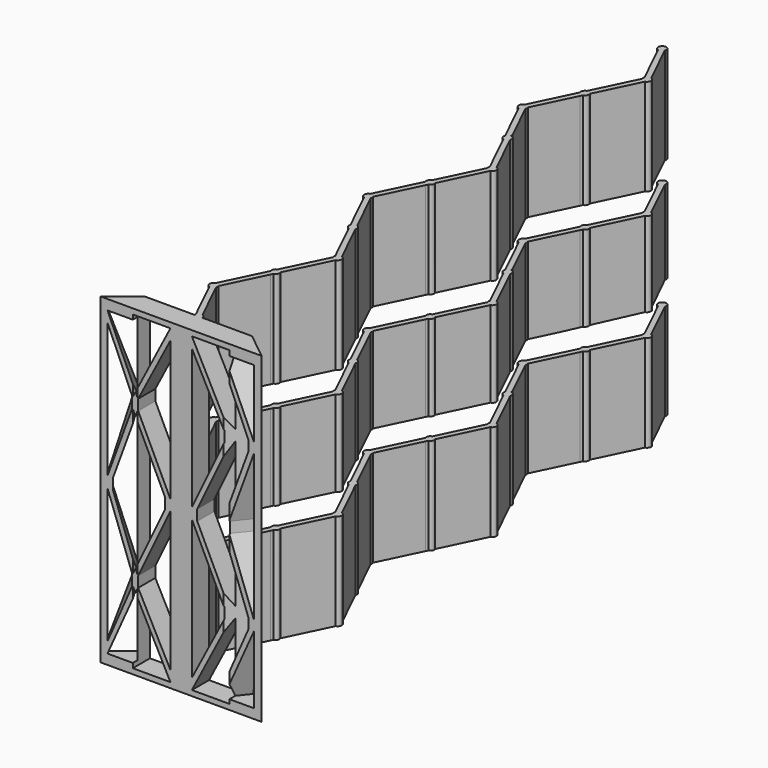
from build123d import *

# Parameters (mm, degrees)
F1_DEPTH       = 30
F3_DEPTH       = 25
F5_DEPTH       = 25
F7_DEPTH       = 25
F9_DEPTH       = 30
F10_W          = 16.491856426
F10_H          = 2
F11_DEPTH      = 25
F11_DEPTH_BACK = 25


with BuildPart() as f1:
    # F0 (on Top) → F1 (new body)
    with BuildSketch(Plane.XY):
        Polygon((-7.5, 0), (0, 0), (0, 2), (-5, 2), align=None)
        Polygon((0, 2), (0, 0), (7.5, 0), (5, 2), align=None)
    extrude(amount=F1_DEPTH)

    # F2 (on face) → F3 (cut)
    with BuildSketch(Plane(origin=(0, 2, 0), x_dir=(-1, 0, 0), z_dir=(0, 1, 0))):
        Polygon((-1, 29.5), (-4.5, 29.5), (-4.5, 22.75), align=None)
        Polygon((-1, 15.5), (-1, 28.5), (-4, 22.75), (-4, 21.75), align=None)
        Polygon((-1.5, 15.5), (-4.5, 21.75), (-4.5, 15), (-1.5, 15), align=None)
        Polygon((4, 22.75), (1, 28.5), (1, 15.5), (4, 21.75), align=None)
        Polygon((4.5, 29.5), (1, 29.5), (4.5, 22.75), align=None)
        Polygon((4.5, 21.75), (1.5, 15.5), (1.5, 15), (4.5, 15), align=None)
        Polygon((-1.5, 15), (-4.5, 15), (-4.5, 8.25), (-1.5, 14.5), align=None)
        Polygon((-4, 7.25), (-1, 1.5), (-1, 14.5), (-4, 8.25), align=None)
        Polygon((-4.5, 7.25), (-4.5, 0.5), (-1, 0.5), align=None)
        Polygon((4, 8.25), (1, 14.5), (1, 1.5), (4, 7.25), align=None)
        Polygon((4.5, 15), (1.5, 15), (1.5, 14.5), (4.5, 8.25), align=None)
        Polygon((1, 0.5), (4.5, 0.5), (4.5, 7.25), align=None)
    extrude(amount=-F3_DEPTH, mode=Mode.SUBTRACT)

    # F4 (on face) → F5 (cut)
    with BuildSketch(Plane(origin=(-2.9268292683, 3.6585365854, 0), x_dir=(-0.7808688094, -0.6246950476, 0), z_dir=(-0.6246950476, 0.7808688094, 0))):
        Polygon((3.1549539521, 15), (4.9565160708, 15), (4.9565160708, 15.5), (3.1549539521, 21.7829179019), (3.1549539521, 15.5), align=None)
        Polygon((5.3565160708, 16), (5.3565160708, 28.0658358037), (3.5549539521, 22.7829179019), (3.5549539521, 21.7829179019), (5.3565160708, 15.5), align=None)
        Polygon((4.9565160708, 14.5), (4.9565160708, 15), (3.1549539521, 15), (3.1549539521, 14.5), (3.1549539521, 8.2170820981), align=None)
        Polygon((5.3565160708, 14), (5.3565160708, 14.5), (3.5549539521, 8.2170820981), (3.5549539521, 7.2170820981), (5.3565160708, 1.9341641963), align=None)
        Polygon((3.1549539521, 0.9341641963), (5.3565160708, 0.9341641963), (3.1549539521, 7.2170820981), align=None)
        Polygon((5.3565160708, 29.0658358037), (3.1549539521, 29.0658358037), (3.1549539521, 22.7829179019), align=None)
    extrude(amount=-F5_DEPTH, mode=Mode.SUBTRACT)

    # F6 (on face) → F7 (cut)
    with BuildSketch(Plane(origin=(2.9268292683, 3.6585365854, 0), x_dir=(-0.7808688094, 0.6246950476, 0), z_dir=(0.6246950476, 0.7808688094, 0))):
        Polygon((-3.0835880205, 1.8874384761), (-3.0835880205, 14.4532742798), (-4.8851501392, 8.170356378), (-4.8851501392, 7.170356378), align=None)
        Polygon((-3.4835880205, 14.4532742798), (-3.4835880205, 14.9532742798), (-5.2851501392, 14.9532742798), (-5.2851501392, 13.3242430985), (-5.2851501392, 8.170356378), align=None)
        Polygon((-5.2851501392, 14.9532742798), (-3.4835880205, 14.9532742798), (-3.4835880205, 15.4532742798), (-5.2851501392, 21.7361921817), (-5.2851501392, 16.5823054612), align=None)
        Polygon((-5.2851501392, 0.8874384761), (-3.0835880205, 0.8874384761), (-5.2851501392, 7.170356378), align=None)
        Polygon((-4.8851501392, 21.7361921817), (-3.0835880205, 15.4532742798), (-3.0835880205, 28.0191100836), (-4.8851501392, 22.7361921817), align=None)
        Polygon((-3.0835880205, 29.0191100836), (-5.2851501392, 29.0191100836), (-5.2851501392, 22.7361921817), align=None)
    extrude(amount=-F7_DEPTH, mode=Mode.SUBTRACT)

    # F8 (on Top) → F9 (join)
    with BuildSketch(Plane.XY):
        with BuildLine():
            Line((-2.0159907614, 6.1625), (-0.1634587104, 2.3375))
            ThreePointArc((-0.1634587104, 2.3375), (-0.0838525492, 2.3655047879), (0, 2.375))
            Line((0, 2.375), (0, 2.5735393347))
            Line((0, 2.5735393347), (-1.8326145425, 6.3574148261))
            ThreePointArc((-1.8326145425, 6.3574148261), (-1.9063234074, 6.2430425075), (-2.0159907614, 6.1625))
        make_face()
        with BuildLine():
            Line((1.8326145425, 15.3574148261), (-0.1031650707, 11.3605301211))
            ThreePointArc((-0.1031650707, 11.3605301211), (0.1634587104, 11.3375), (0.3468349293, 11.1425851739))
            Line((0.3468349293, 11.1425851739), (2.2826145425, 15.1394698789))
            ThreePointArc((2.2826145425, 15.1394698789), (2.0159907614, 15.1625), (1.8326145425, 15.3574148261))
        make_face()
        with BuildLine():
            Line((1.8326145425, 33.3574148261), (-0.1031650707, 29.3605301211))
            ThreePointArc((-0.1031650707, 29.3605301211), (0.1634587104, 29.3375), (0.3468349293, 29.1425851739))
            Line((0.3468349293, 29.1425851739), (2.2826145425, 33.1394698789))
            ThreePointArc((2.2826145425, 33.1394698789), (2.0159907614, 33.1625), (1.8326145425, 33.3574148261))
        make_face()
        with BuildLine():
            Line((-0.3468349293, 28.8574148261), (-2.2826145425, 24.8605301211))
            ThreePointArc((-2.2826145425, 24.8605301211), (-2.147178318, 24.8736088498), (-2.0159907614, 24.8375))
            Line((-2.0159907614, 24.8375), (-0.1634587104, 28.6625))
            ThreePointArc((-0.1634587104, 28.6625), (-0.2731260644, 28.7430425075), (-0.3468349293, 28.8574148261))
        make_face()
        with BuildLine():
            Line((-0.1031650707, 19.6394698789), (1.8326145425, 15.6425851739))
            ThreePointArc((1.8326145425, 15.6425851739), (1.9063234074, 15.7569574925), (2.0159907614, 15.8375))
            Line((2.0159907614, 15.8375), (0.1634587104, 19.6625))
            ThreePointArc((0.1634587104, 19.6625), (0.0322711538, 19.6263911502), (-0.1031650707, 19.6394698789))
        make_face()
        with BuildLine():
            Line((0.1634587104, 19.6625), (2.0159907614, 15.8375))
            ThreePointArc((2.0159907614, 15.8375), (2.147178318, 15.8736088498), (2.2826145425, 15.8605301211))
            Line((2.2826145425, 15.8605301211), (0.3468349293, 19.8574148261))
            ThreePointArc((0.3468349293, 19.8574148261), (0.2731260644, 19.7430425075), (0.1634587104, 19.6625))
        make_face()
        with BuildLine():
            Line((-2.2826145425, 24.1394698789), (-0.3468349293, 20.1425851739))
            ThreePointArc((-0.3468349293, 20.1425851739), (-0.2731260644, 20.2569574925), (-0.1634587104, 20.3375))
            Line((-0.1634587104, 20.3375), (-2.0159907614, 24.1625))
            ThreePointArc((-2.0159907614, 24.1625), (-2.147178318, 24.1263911502), (-2.2826145425, 24.1394698789))
        make_face()
        with BuildLine():
            Line((-2.2826145425, 6.1394698789), (-0.3468349293, 2.1425851739))
            ThreePointArc((-0.3468349293, 2.1425851739), (-0.2731260644, 2.2569574925), (-0.1634587104, 2.3375))
            Line((-0.1634587104, 2.3375), (-2.0159907614, 6.1625))
            ThreePointArc((-2.0159907614, 6.1625), (-2.147178318, 6.1263911502), (-2.2826145425, 6.1394698789))
        make_face()
        with BuildLine():
            Line((-0.3468349293, 10.8574148261), (-2.2826145425, 6.8605301211))
            ThreePointArc((-2.2826145425, 6.8605301211), (-2.147178318, 6.8736088498), (-2.0159907614, 6.8375))
            Line((-2.0159907614, 6.8375), (-0.1634587104, 10.6625))
            ThreePointArc((-0.1634587104, 10.6625), (-0.2731260644, 10.7430425075), (-0.3468349293, 10.8574148261))
        make_face()
        with BuildLine():
            Line((-1.8326145425, 6.6425851739), (0, 10.4264606653))
            Line((0, 10.4264606653), (0, 10.625))
            ThreePointArc((0, 10.625), (-0.0838525492, 10.6344952121), (-0.1634587104, 10.6625))
            Line((-0.1634587104, 10.6625), (-2.0159907614, 6.8375))
            ThreePointArc((-2.0159907614, 6.8375), (-1.9063234074, 6.7569574925), (-1.8326145425, 6.6425851739))
        make_face()
        with BuildLine():
            Line((-2.0159907614, 24.1625), (-0.1634587104, 20.3375))
            ThreePointArc((-0.1634587104, 20.3375), (-0.0838525492, 20.3655047879), (0, 20.375))
            Line((0, 20.375), (0, 20.5735393347))
            Line((0, 20.5735393347), (-1.8326145425, 24.3574148261))
            ThreePointArc((-1.8326145425, 24.3574148261), (-1.9063234074, 24.2430425075), (-2.0159907614, 24.1625))
        make_face()
        with BuildLine():
            Line((-0.1634587104, 28.6625), (-2.0159907614, 24.8375))
            ThreePointArc((-2.0159907614, 24.8375), (-1.9063234074, 24.7569574925), (-1.8326145425, 24.6425851739))
            Line((-1.8326145425, 24.6425851739), (0, 28.4264606653))
            Line((0, 28.4264606653), (0, 28.625))
            ThreePointArc((0, 28.625), (-0.0838525492, 28.6344952121), (-0.1634587104, 28.6625))
        make_face()
        with BuildLine():
            Line((-0.1031650707, 37.6394698789), (1.8326145425, 33.6425851739))
            ThreePointArc((1.8326145425, 33.6425851739), (1.9063234074, 33.7569574925), (2.0159907614, 33.8375))
            Line((2.0159907614, 33.8375), (0.1634587104, 37.6625))
            ThreePointArc((0.1634587104, 37.6625), (0.0322711538, 37.6263911502), (-0.1031650707, 37.6394698789))
        make_face()
        with BuildLine():
            Line((0.1634587104, 37.6625), (2.0159907614, 33.8375))
            ThreePointArc((2.0159907614, 33.8375), (2.147178318, 33.8736088498), (2.2826145425, 33.8605301211))
            Line((2.2826145425, 33.8605301211), (0.3468349293, 37.8574148261))
            ThreePointArc((0.3468349293, 37.8574148261), (0.2731260644, 37.7430425075), (0.1634587104, 37.6625))
        make_face()
        with BuildLine():
            Line((2.4044494718, 15.3910275264), (2.2826145425, 15.1394698789))
            ThreePointArc((2.2826145425, 15.1394698789), (2.4788755073, 15.2742367407), (2.5544494718, 15.5))
            ThreePointArc((2.5544494718, 15.5), (2.4788755073, 15.7257632593), (2.2826145425, 15.8605301211))
            Line((2.2826145425, 15.8605301211), (2.4044494718, 15.6089724736))
            Line((2.4044494718, 15.6089724736), (2.1794494718, 15.5))
            Line((2.1794494718, 15.5), (2.4044494718, 15.3910275264))
        make_face()
        with BuildLine():
            Line((0, 38), (0.1634587104, 37.6625))
            ThreePointArc((0.1634587104, 37.6625), (0.2731260644, 37.7430425075), (0.3468349293, 37.8574148261))
            Line((0.3468349293, 37.8574148261), (0.225, 38.1089724736))
            Line((0.225, 38.1089724736), (0, 38))
        make_face()
        with BuildLine():
            Line((-0.225, 37.8910275264), (-0.1031650707, 37.6394698789))
            ThreePointArc((-0.1031650707, 37.6394698789), (0.0322711538, 37.6263911502), (0.1634587104, 37.6625))
            Line((0.1634587104, 37.6625), (0, 38))
            Line((0, 38), (-0.225, 37.8910275264))
        make_face()
        with BuildLine():
            Line((-0.3468349293, 38.1425851739), (-0.225, 37.8910275264))
            Line((-0.225, 37.8910275264), (0, 38))
            Line((0, 38), (-0.1634587104, 38.3375))
            ThreePointArc((-0.1634587104, 38.3375), (-0.2731260644, 38.2569574925), (-0.3468349293, 38.1425851739))
        make_face()
        with BuildLine():
            Line((1.901671694, 15.5), (1.8326145425, 15.3574148261))
            ThreePointArc((1.8326145425, 15.3574148261), (2.0159907614, 15.1625), (2.2826145425, 15.1394698789))
            Line((2.2826145425, 15.1394698789), (2.4044494718, 15.3910275264))
            Line((2.4044494718, 15.3910275264), (2.1794494718, 15.5))
            Line((2.1794494718, 15.5), (1.9544494718, 15.3910275264))
            Line((1.9544494718, 15.3910275264), (1.901671694, 15.5))
        make_face()
        with BuildLine():
            ThreePointArc((2.2826145425, 15.8605301211), (2.147178318, 15.8736088498), (2.0159907614, 15.8375))
            Line((2.0159907614, 15.8375), (2.1794494718, 15.5))
            Line((2.1794494718, 15.5), (2.4044494718, 15.6089724736))
            Line((2.4044494718, 15.6089724736), (2.2826145425, 15.8605301211))
        make_face()
        Polygon((1.9544494718, 15.6089724736), (1.901671694, 15.5), (1.9544494718, 15.3910275264), (2.1794494718, 15.5), align=None)
        with BuildLine():
            ThreePointArc((1.8326145425, 15.6425851739), (1.8044494718, 15.5), (1.8326145425, 15.3574148261))
            Line((1.8326145425, 15.3574148261), (1.901671694, 15.5))
            Line((1.901671694, 15.5), (1.8326145425, 15.6425851739))
        make_face()
        with BuildLine():
            Line((1.8326145425, 15.6425851739), (1.901671694, 15.5))
            Line((1.901671694, 15.5), (1.9544494718, 15.6089724736))
            Line((1.9544494718, 15.6089724736), (2.1794494718, 15.5))
            Line((2.1794494718, 15.5), (2.0159907614, 15.8375))
            ThreePointArc((2.0159907614, 15.8375), (1.9063234074, 15.7569574925), (1.8326145425, 15.6425851739))
        make_face()
        with BuildLine():
            Line((0.225, 10.8910275264), (0.1031650707, 10.6394698789))
            ThreePointArc((0.1031650707, 10.6394698789), (0.2994260355, 10.7742367407), (0.375, 11))
            ThreePointArc((0.375, 11), (0.3678913552, 11.0726701504), (0.3468349293, 11.1425851739))
            Line((0.3468349293, 11.1425851739), (0.225, 10.8910275264))
        make_face()
        with BuildLine():
            ThreePointArc((-0.1031650707, 11.3605301211), (-0.3375, 11.1634587104), (-0.3468349293, 10.8574148261))
            Line((-0.3468349293, 10.8574148261), (-0.225, 11.1089724736))
            Line((-0.225, 11.1089724736), (-0.1031650707, 11.3605301211))
        make_face()
        with BuildLine():
            Line((-0.225, 11.1089724736), (-0.3468349293, 10.8574148261))
            ThreePointArc((-0.3468349293, 10.8574148261), (-0.2731260644, 10.7430425075), (-0.1634587104, 10.6625))
            Line((-0.1634587104, 10.6625), (0, 11))
            Line((0, 11), (-0.225, 11.1089724736))
        make_face()
        with BuildLine():
            Line((1.901671694, 33.5), (1.8326145425, 33.3574148261))
            ThreePointArc((1.8326145425, 33.3574148261), (2.0159907614, 33.1625), (2.2826145425, 33.1394698789))
            Line((2.2826145425, 33.1394698789), (2.4044494718, 33.3910275264))
            Line((2.4044494718, 33.3910275264), (2.1794494718, 33.5))
            Line((2.1794494718, 33.5), (1.9544494718, 33.3910275264))
            Line((1.9544494718, 33.3910275264), (1.901671694, 33.5))
        make_face()
        with BuildLine():
            Line((0, 10.625), (0, 10.4264606653))
            Line((0, 10.4264606653), (0.1031650707, 10.6394698789))
            ThreePointArc((0.1031650707, 10.6394698789), (0.0520874486, 10.6286350882), (0, 10.625))
        make_face()
        with BuildLine():
            Line((-0.225, 11.1089724736), (-0.3468349293, 10.8574148261))
            ThreePointArc((-0.3468349293, 10.8574148261), (-0.2731260644, 10.7430425075), (-0.1634587104, 10.6625))
            Line((-0.1634587104, 10.6625), (0, 11))
            Line((0, 11), (-0.225, 11.1089724736))
        make_face()
        with BuildLine():
            Line((-0.1031650707, 11.3605301211), (-0.225, 11.1089724736))
            Line((-0.225, 11.1089724736), (0, 11))
            Line((0, 11), (0.225, 10.8910275264))
            Line((0.225, 10.8910275264), (0.3468349293, 11.1425851739))
            ThreePointArc((0.3468349293, 11.1425851739), (0.1634587104, 11.3375), (-0.1031650707, 11.3605301211))
        make_face()
        with BuildLine():
            Line((2.4044494718, 33.3910275264), (2.2826145425, 33.1394698789))
            ThreePointArc((2.2826145425, 33.1394698789), (2.4788755073, 33.2742367407), (2.5544494718, 33.5))
            ThreePointArc((2.5544494718, 33.5), (2.4788755073, 33.7257632593), (2.2826145425, 33.8605301211))
            Line((2.2826145425, 33.8605301211), (2.4044494718, 33.6089724736))
            Line((2.4044494718, 33.6089724736), (2.1794494718, 33.5))
            Line((2.1794494718, 33.5), (2.4044494718, 33.3910275264))
        make_face()
        with BuildLine():
            Line((-0.1031650707, 11.3605301211), (-0.225, 11.1089724736))
            Line((-0.225, 11.1089724736), (0, 11))
            Line((0, 11), (0.225, 10.8910275264))
            Line((0.225, 10.8910275264), (0.3468349293, 11.1425851739))
            ThreePointArc((0.3468349293, 11.1425851739), (0.1634587104, 11.3375), (-0.1031650707, 11.3605301211))
        make_face()
        with BuildLine():
            Line((0, 11), (0, 10.625))
            ThreePointArc((0, 10.625), (0.0520874486, 10.6286350882), (0.1031650707, 10.6394698789))
            Line((0.1031650707, 10.6394698789), (0.225, 10.8910275264))
            Line((0.225, 10.8910275264), (0, 11))
        make_face()
        with BuildLine():
            Line((1.8326145425, 33.6425851739), (1.901671694, 33.5))
            Line((1.901671694, 33.5), (1.9544494718, 33.6089724736))
            Line((1.9544494718, 33.6089724736), (2.1794494718, 33.5))
            Line((2.1794494718, 33.5), (2.0159907614, 33.8375))
            ThreePointArc((2.0159907614, 33.8375), (1.9063234074, 33.7569574925), (1.8326145425, 33.6425851739))
        make_face()
        Polygon((1.9544494718, 33.6089724736), (1.901671694, 33.5), (1.9544494718, 33.3910275264), (2.1794494718, 33.5), align=None)
        with BuildLine():
            ThreePointArc((-0.1634587104, 10.6625), (-0.0838525492, 10.6344952121), (0, 10.625))
            Line((0, 10.625), (0, 11))
            Line((0, 11), (-0.1634587104, 10.6625))
        make_face()
        with BuildLine():
            ThreePointArc((2.2826145425, 33.8605301211), (2.147178318, 33.8736088498), (2.0159907614, 33.8375))
            Line((2.0159907614, 33.8375), (2.1794494718, 33.5))
            Line((2.1794494718, 33.5), (2.4044494718, 33.6089724736))
            Line((2.4044494718, 33.6089724736), (2.2826145425, 33.8605301211))
        make_face()
        with BuildLine():
            ThreePointArc((1.8326145425, 33.6425851739), (1.8044494718, 33.5), (1.8326145425, 33.3574148261))
            Line((1.8326145425, 33.3574148261), (1.901671694, 33.5))
            Line((1.901671694, 33.5), (1.8326145425, 33.6425851739))
        make_face()
        with BuildLine():
            Line((0, 2.5735393347), (0, 2.375))
            ThreePointArc((0, 2.375), (0.0520874486, 2.3713649118), (0.1031650707, 2.3605301211))
            Line((0.1031650707, 2.3605301211), (0, 2.5735393347))
        make_face()
        with BuildLine():
            ThreePointArc((-2.2826145425, 6.8605301211), (-2.5544494718, 6.5), (-2.2826145425, 6.1394698789))
            Line((-2.2826145425, 6.1394698789), (-2.4044494718, 6.3910275264))
            Line((-2.4044494718, 6.3910275264), (-2.1794494718, 6.5))
            Line((-2.1794494718, 6.5), (-2.4044494718, 6.6089724736))
            Line((-2.4044494718, 6.6089724736), (-2.2826145425, 6.8605301211))
        make_face()
        with BuildLine():
            Line((-2.4044494718, 6.3910275264), (-2.2826145425, 6.1394698789))
            ThreePointArc((-2.2826145425, 6.1394698789), (-2.147178318, 6.1263911502), (-2.0159907614, 6.1625))
            Line((-2.0159907614, 6.1625), (-2.1794494718, 6.5))
            Line((-2.1794494718, 6.5), (-2.4044494718, 6.3910275264))
        make_face()
        with BuildLine():
            ThreePointArc((-2.0159907614, 6.8375), (-2.147178318, 6.8736088498), (-2.2826145425, 6.8605301211))
            Line((-2.2826145425, 6.8605301211), (-2.4044494718, 6.6089724736))
            Line((-2.4044494718, 6.6089724736), (-2.1794494718, 6.5))
            Line((-2.1794494718, 6.5), (-2.0159907614, 6.8375))
        make_face()
        with BuildLine():
            Line((-2.1794494718, 6.5), (-2.0159907614, 6.1625))
            ThreePointArc((-2.0159907614, 6.1625), (-1.9063234074, 6.2430425075), (-1.8326145425, 6.3574148261))
            Line((-1.8326145425, 6.3574148261), (-1.901671694, 6.5))
            Line((-1.901671694, 6.5), (-1.9544494718, 6.3910275264))
            Line((-1.9544494718, 6.3910275264), (-2.1794494718, 6.5))
        make_face()
        with BuildLine():
            Line((-2.0159907614, 6.8375), (-2.1794494718, 6.5))
            Line((-2.1794494718, 6.5), (-1.9544494718, 6.6089724736))
            Line((-1.9544494718, 6.6089724736), (-1.901671694, 6.5))
            Line((-1.901671694, 6.5), (-1.8326145425, 6.6425851739))
            ThreePointArc((-1.8326145425, 6.6425851739), (-1.9063234074, 6.7569574925), (-2.0159907614, 6.8375))
        make_face()
        with BuildLine():
            Line((-1.901671694, 6.5), (-1.8326145425, 6.3574148261))
            ThreePointArc((-1.8326145425, 6.3574148261), (-1.8115581166, 6.4273298496), (-1.8044494718, 6.5))
            ThreePointArc((-1.8044494718, 6.5), (-1.8115581166, 6.5726701504), (-1.8326145425, 6.6425851739))
            Line((-1.8326145425, 6.6425851739), (-1.901671694, 6.5))
        make_face()
        Polygon((-1.9544494718, 6.6089724736), (-2.1794494718, 6.5), (-1.9544494718, 6.3910275264), (-1.901671694, 6.5), align=None)
        with BuildLine():
            Line((-0.225, 29.1089724736), (-0.3468349293, 28.8574148261))
            ThreePointArc((-0.3468349293, 28.8574148261), (-0.2731260644, 28.7430425075), (-0.1634587104, 28.6625))
            Line((-0.1634587104, 28.6625), (0, 29))
            Line((0, 29), (-0.225, 29.1089724736))
        make_face()
        with BuildLine():
            Line((0, 29), (-0.1634587104, 28.6625))
            ThreePointArc((-0.1634587104, 28.6625), (-0.0838525492, 28.6344952121), (0, 28.625))
            Line((0, 28.625), (0, 29))
        make_face()
        with BuildLine():
            ThreePointArc((-0.1031650707, 29.3605301211), (-0.3375, 29.1634587104), (-0.3468349293, 28.8574148261))
            Line((-0.3468349293, 28.8574148261), (-0.225, 29.1089724736))
            Line((-0.225, 29.1089724736), (-0.1031650707, 29.3605301211))
        make_face()
        with BuildLine():
            Line((0.225, 28.8910275264), (0.1031650707, 28.6394698789))
            ThreePointArc((0.1031650707, 28.6394698789), (0.2994260355, 28.7742367407), (0.375, 29))
            ThreePointArc((0.375, 29), (0.3678913552, 29.0726701504), (0.3468349293, 29.1425851739))
            Line((0.3468349293, 29.1425851739), (0.225, 28.8910275264))
        make_face()
        with BuildLine():
            Line((-0.225, 29.1089724736), (-0.3468349293, 28.8574148261))
            ThreePointArc((-0.3468349293, 28.8574148261), (-0.2731260644, 28.7430425075), (-0.1634587104, 28.6625))
            Line((-0.1634587104, 28.6625), (0, 29))
            Line((0, 29), (-0.225, 29.1089724736))
        make_face()
        with BuildLine():
            Line((0, 29), (0, 28.625))
            ThreePointArc((0, 28.625), (0.0520874486, 28.6286350882), (0.1031650707, 28.6394698789))
            Line((0.1031650707, 28.6394698789), (0.225, 28.8910275264))
            Line((0.225, 28.8910275264), (0, 29))
        make_face()
        with BuildLine():
            Line((0, 28.625), (0, 28.4264606653))
            Line((0, 28.4264606653), (0.1031650707, 28.6394698789))
            ThreePointArc((0.1031650707, 28.6394698789), (0.0520874486, 28.6286350882), (0, 28.625))
        make_face()
        with BuildLine():
            Line((-0.1031650707, 29.3605301211), (-0.225, 29.1089724736))
            Line((-0.225, 29.1089724736), (0, 29))
            Line((0, 29), (0.225, 28.8910275264))
            Line((0.225, 28.8910275264), (0.3468349293, 29.1425851739))
            ThreePointArc((0.3468349293, 29.1425851739), (0.1634587104, 29.3375), (-0.1031650707, 29.3605301211))
        make_face()
        with BuildLine():
            Line((-2.1794494718, 24.5), (-2.0159907614, 24.1625))
            ThreePointArc((-2.0159907614, 24.1625), (-1.9063234074, 24.2430425075), (-1.8326145425, 24.3574148261))
            Line((-1.8326145425, 24.3574148261), (-1.901671694, 24.5))
            Line((-1.901671694, 24.5), (-1.9544494718, 24.3910275264))
            Line((-1.9544494718, 24.3910275264), (-2.1794494718, 24.5))
        make_face()
        with BuildLine():
            Line((-2.4044494718, 24.3910275264), (-2.2826145425, 24.1394698789))
            ThreePointArc((-2.2826145425, 24.1394698789), (-2.147178318, 24.1263911502), (-2.0159907614, 24.1625))
            Line((-2.0159907614, 24.1625), (-2.1794494718, 24.5))
            Line((-2.1794494718, 24.5), (-2.4044494718, 24.3910275264))
        make_face()
        with BuildLine():
            ThreePointArc((-2.2826145425, 24.8605301211), (-2.5544494718, 24.5), (-2.2826145425, 24.1394698789))
            Line((-2.2826145425, 24.1394698789), (-2.4044494718, 24.3910275264))
            Line((-2.4044494718, 24.3910275264), (-2.1794494718, 24.5))
            Line((-2.1794494718, 24.5), (-2.4044494718, 24.6089724736))
            Line((-2.4044494718, 24.6089724736), (-2.2826145425, 24.8605301211))
        make_face()
        with BuildLine():
            Line((-1.901671694, 24.5), (-1.8326145425, 24.3574148261))
            ThreePointArc((-1.8326145425, 24.3574148261), (-1.8115581166, 24.4273298496), (-1.8044494718, 24.5))
            ThreePointArc((-1.8044494718, 24.5), (-1.8115581166, 24.5726701504), (-1.8326145425, 24.6425851739))
            Line((-1.8326145425, 24.6425851739), (-1.901671694, 24.5))
        make_face()
        with BuildLine():
            Line((0, 20.5735393347), (0, 20.375))
            ThreePointArc((0, 20.375), (0.0520874486, 20.3713649118), (0.1031650707, 20.3605301211))
            Line((0.1031650707, 20.3605301211), (0, 20.5735393347))
        make_face()
        with BuildLine():
            Line((-2.0159907614, 24.8375), (-2.1794494718, 24.5))
            Line((-2.1794494718, 24.5), (-1.9544494718, 24.6089724736))
            Line((-1.9544494718, 24.6089724736), (-1.901671694, 24.5))
            Line((-1.901671694, 24.5), (-1.8326145425, 24.6425851739))
            ThreePointArc((-1.8326145425, 24.6425851739), (-1.9063234074, 24.7569574925), (-2.0159907614, 24.8375))
        make_face()
        with BuildLine():
            ThreePointArc((-2.0159907614, 24.8375), (-2.147178318, 24.8736088498), (-2.2826145425, 24.8605301211))
            Line((-2.2826145425, 24.8605301211), (-2.4044494718, 24.6089724736))
            Line((-2.4044494718, 24.6089724736), (-2.1794494718, 24.5))
            Line((-2.1794494718, 24.5), (-2.0159907614, 24.8375))
        make_face()
        Polygon((-1.9544494718, 24.6089724736), (-2.1794494718, 24.5), (-1.9544494718, 24.3910275264), (-1.901671694, 24.5), align=None)
        with BuildLine():
            Line((0.225, 20.1089724736), (0.3468349293, 19.8574148261))
            ThreePointArc((0.3468349293, 19.8574148261), (0.3678913552, 19.9273298496), (0.375, 20))
            ThreePointArc((0.375, 20), (0.2994260355, 20.2257632593), (0.1031650707, 20.3605301211))
            Line((0.1031650707, 20.3605301211), (0.225, 20.1089724736))
        make_face()
        with BuildLine():
            ThreePointArc((-0.3468349293, 20.1425851739), (-0.3375, 19.8365412896), (-0.1031650707, 19.6394698789))
            Line((-0.1031650707, 19.6394698789), (-0.225, 19.8910275264))
            Line((-0.225, 19.8910275264), (-0.3468349293, 20.1425851739))
        make_face()
        with BuildLine():
            Line((-0.3468349293, 20.1425851739), (-0.225, 19.8910275264))
            Line((-0.225, 19.8910275264), (0, 20))
            Line((0, 20), (-0.1634587104, 20.3375))
            ThreePointArc((-0.1634587104, 20.3375), (-0.2731260644, 20.2569574925), (-0.3468349293, 20.1425851739))
        make_face()
        with BuildLine():
            Line((-0.225, 19.8910275264), (-0.1031650707, 19.6394698789))
            ThreePointArc((-0.1031650707, 19.6394698789), (0.0322711538, 19.6263911502), (0.1634587104, 19.6625))
            Line((0.1634587104, 19.6625), (0, 20))
            Line((0, 20), (-0.225, 19.8910275264))
        make_face()
        with BuildLine():
            Line((0, 20), (0.1634587104, 19.6625))
            ThreePointArc((0.1634587104, 19.6625), (0.2731260644, 19.7430425075), (0.3468349293, 19.8574148261))
            Line((0.3468349293, 19.8574148261), (0.225, 20.1089724736))
            Line((0.225, 20.1089724736), (0, 20))
        make_face()
        with BuildLine():
            Line((0, 20.375), (0, 20))
            Line((0, 20), (0.225, 20.1089724736))
            Line((0.225, 20.1089724736), (0.1031650707, 20.3605301211))
            ThreePointArc((0.1031650707, 20.3605301211), (0.0520874486, 20.3713649118), (0, 20.375))
        make_face()
        with BuildLine():
            Line((-0.1634587104, 20.3375), (0, 20))
            Line((0, 20), (0, 20.375))
            ThreePointArc((0, 20.375), (-0.0838525492, 20.3655047879), (-0.1634587104, 20.3375))
        make_face()
        with BuildLine():
            Line((0, 2.375), (0, 2))
            Line((0, 2), (0.225, 2.1089724736))
            Line((0.225, 2.1089724736), (0.1031650707, 2.3605301211))
            ThreePointArc((0.1031650707, 2.3605301211), (0.0520874486, 2.3713649118), (0, 2.375))
        make_face()
        with BuildLine():
            Line((-0.225, 1.8910275264), (0, 2))
            Line((0, 2), (-0.1634587104, 2.3375))
            ThreePointArc((-0.1634587104, 2.3375), (-0.2731260644, 2.2569574925), (-0.3468349293, 2.1425851739))
            Line((-0.3468349293, 2.1425851739), (-0.225, 1.8910275264))
        make_face()
        with BuildLine():
            ThreePointArc((-0.3468349293, 2.1425851739), (-0.3115240281, 1.7912470841), (0, 1.625))
            Line((0, 1.625), (0, 2))
            Line((0, 2), (-0.225, 1.8910275264))
            Line((-0.225, 1.8910275264), (-0.3468349293, 2.1425851739))
        make_face()
        with BuildLine():
            Line((0, 2), (0, 1.625))
            ThreePointArc((0, 1.625), (0.2651650429, 1.7348349571), (0.375, 2))
            ThreePointArc((0.375, 2), (0.2994260355, 2.2257632593), (0.1031650707, 2.3605301211))
            Line((0.1031650707, 2.3605301211), (0.225, 2.1089724736))
            Line((0.225, 2.1089724736), (0, 2))
        make_face()
        with BuildLine():
            Line((-0.1634587104, 2.3375), (0, 2))
            Line((0, 2), (0, 2.375))
            ThreePointArc((0, 2.375), (-0.0838525492, 2.3655047879), (-0.1634587104, 2.3375))
        make_face()
        with BuildLine():
            Line((1.8326145425, 51.3574148261), (-0.1031650707, 47.3605301211))
            ThreePointArc((-0.1031650707, 47.3605301211), (0.1634587104, 47.3375), (0.3468349293, 47.1425851739))
            Line((0.3468349293, 47.1425851739), (2.2826145425, 51.1394698789))
            ThreePointArc((2.2826145425, 51.1394698789), (2.0159907614, 51.1625), (1.8326145425, 51.3574148261))
        make_face()
        with BuildLine():
            ThreePointArc((0.375, 56), (-0.2257632593, 56.2994260355), (-0.1031650707, 55.6394698789))
            Line((-0.1031650707, 55.6394698789), (-0.225, 55.8910275264))
            Line((-0.225, 55.8910275264), (0, 56))
            Line((0, 56), (0.225, 56.1089724736))
            Line((0.225, 56.1089724736), (0.3468349293, 55.8574148261))
            ThreePointArc((0.3468349293, 55.8574148261), (0.3678913552, 55.9273298496), (0.375, 56))
        make_face()
        with BuildLine():
            Line((0.1634587104, 55.6625), (2.0159907614, 51.8375))
            ThreePointArc((2.0159907614, 51.8375), (2.147178318, 51.8736088498), (2.2826145425, 51.8605301211))
            Line((2.2826145425, 51.8605301211), (0.3468349293, 55.8574148261))
            ThreePointArc((0.3468349293, 55.8574148261), (0.2731260644, 55.7430425075), (0.1634587104, 55.6625))
        make_face()
        with BuildLine():
            Line((-0.1031650707, 55.6394698789), (1.8326145425, 51.6425851739))
            ThreePointArc((1.8326145425, 51.6425851739), (1.9063234074, 51.7569574925), (2.0159907614, 51.8375))
            Line((2.0159907614, 51.8375), (0.1634587104, 55.6625))
            ThreePointArc((0.1634587104, 55.6625), (0.0322711538, 55.6263911502), (-0.1031650707, 55.6394698789))
        make_face()
        with BuildLine():
            Line((-0.225, 55.8910275264), (-0.1031650707, 55.6394698789))
            ThreePointArc((-0.1031650707, 55.6394698789), (0.0322711538, 55.6263911502), (0.1634587104, 55.6625))
            Line((0.1634587104, 55.6625), (0, 56))
            Line((0, 56), (-0.225, 55.8910275264))
        make_face()
        with BuildLine():
            Line((0, 56), (0.1634587104, 55.6625))
            ThreePointArc((0.1634587104, 55.6625), (0.2731260644, 55.7430425075), (0.3468349293, 55.8574148261))
            Line((0.3468349293, 55.8574148261), (0.225, 56.1089724736))
            Line((0.225, 56.1089724736), (0, 56))
        make_face()
        with BuildLine():
            Line((1.901671694, 51.5), (1.8326145425, 51.3574148261))
            ThreePointArc((1.8326145425, 51.3574148261), (2.0159907614, 51.1625), (2.2826145425, 51.1394698789))
            Line((2.2826145425, 51.1394698789), (2.4044494718, 51.3910275264))
            Line((2.4044494718, 51.3910275264), (2.1794494718, 51.5))
            Line((2.1794494718, 51.5), (1.9544494718, 51.3910275264))
            Line((1.9544494718, 51.3910275264), (1.901671694, 51.5))
        make_face()
        with BuildLine():
            Line((2.4044494718, 51.3910275264), (2.2826145425, 51.1394698789))
            ThreePointArc((2.2826145425, 51.1394698789), (2.4788755073, 51.2742367407), (2.5544494718, 51.5))
            ThreePointArc((2.5544494718, 51.5), (2.4788755073, 51.7257632593), (2.2826145425, 51.8605301211))
            Line((2.2826145425, 51.8605301211), (2.4044494718, 51.6089724736))
            Line((2.4044494718, 51.6089724736), (2.1794494718, 51.5))
            Line((2.1794494718, 51.5), (2.4044494718, 51.3910275264))
        make_face()
        with BuildLine():
            ThreePointArc((2.2826145425, 51.8605301211), (2.147178318, 51.8736088498), (2.0159907614, 51.8375))
            Line((2.0159907614, 51.8375), (2.1794494718, 51.5))
            Line((2.1794494718, 51.5), (2.4044494718, 51.6089724736))
            Line((2.4044494718, 51.6089724736), (2.2826145425, 51.8605301211))
        make_face()
        with BuildLine():
            Line((1.8326145425, 51.6425851739), (1.901671694, 51.5))
            Line((1.901671694, 51.5), (1.9544494718, 51.6089724736))
            Line((1.9544494718, 51.6089724736), (2.1794494718, 51.5))
            Line((2.1794494718, 51.5), (2.0159907614, 51.8375))
            ThreePointArc((2.0159907614, 51.8375), (1.9063234074, 51.7569574925), (1.8326145425, 51.6425851739))
        make_face()
        with BuildLine():
            ThreePointArc((1.8326145425, 51.6425851739), (1.8044494718, 51.5), (1.8326145425, 51.3574148261))
            Line((1.8326145425, 51.3574148261), (1.901671694, 51.5))
            Line((1.901671694, 51.5), (1.8326145425, 51.6425851739))
        make_face()
        Polygon((1.9544494718, 51.6089724736), (1.901671694, 51.5), (1.9544494718, 51.3910275264), (2.1794494718, 51.5), align=None)
        with BuildLine():
            Line((-0.1031650707, 47.3605301211), (-0.225, 47.1089724736))
            Line((-0.225, 47.1089724736), (0, 47))
            Line((0, 47), (0.225, 46.8910275264))
            Line((0.225, 46.8910275264), (0.3468349293, 47.1425851739))
            ThreePointArc((0.3468349293, 47.1425851739), (0.1634587104, 47.3375), (-0.1031650707, 47.3605301211))
        make_face()
        with BuildLine():
            ThreePointArc((-0.1031650707, 47.3605301211), (-0.3375, 47.1634587104), (-0.3468349293, 46.8574148261))
            Line((-0.3468349293, 46.8574148261), (-0.225, 47.1089724736))
            Line((-0.225, 47.1089724736), (-0.1031650707, 47.3605301211))
        make_face()
        with BuildLine():
            Line((-0.225, 47.1089724736), (-0.3468349293, 46.8574148261))
            ThreePointArc((-0.3468349293, 46.8574148261), (-0.2731260644, 46.7430425075), (-0.1634587104, 46.6625))
            Line((-0.1634587104, 46.6625), (0, 47))
            Line((0, 47), (-0.225, 47.1089724736))
        make_face()
        with BuildLine():
            Line((0, 47), (-0.1634587104, 46.6625))
            ThreePointArc((-0.1634587104, 46.6625), (-0.0838525492, 46.6344952121), (0, 46.625))
            Line((0, 46.625), (0, 47))
        make_face()
        with BuildLine():
            Line((-0.225, 47.1089724736), (-0.3468349293, 46.8574148261))
            ThreePointArc((-0.3468349293, 46.8574148261), (-0.2731260644, 46.7430425075), (-0.1634587104, 46.6625))
            Line((-0.1634587104, 46.6625), (0, 47))
            Line((0, 47), (-0.225, 47.1089724736))
        make_face()
        with BuildLine():
            Line((0, 47), (0, 46.625))
            ThreePointArc((0, 46.625), (0.0520874486, 46.6286350882), (0.1031650707, 46.6394698789))
            Line((0.1031650707, 46.6394698789), (0.225, 46.8910275264))
            Line((0.225, 46.8910275264), (0, 47))
        make_face()
        with BuildLine():
            Line((0.225, 46.8910275264), (0.1031650707, 46.6394698789))
            ThreePointArc((0.1031650707, 46.6394698789), (0.2994260355, 46.7742367407), (0.375, 47))
            ThreePointArc((0.375, 47), (0.3678913552, 47.0726701504), (0.3468349293, 47.1425851739))
            Line((0.3468349293, 47.1425851739), (0.225, 46.8910275264))
        make_face()
        with BuildLine():
            Line((-0.1634587104, 46.6625), (-2.0159907614, 42.8375))
            ThreePointArc((-2.0159907614, 42.8375), (-1.9063234074, 42.7569574925), (-1.8326145425, 42.6425851739))
            Line((-1.8326145425, 42.6425851739), (0, 46.4264606653))
            Line((0, 46.4264606653), (0, 46.625))
            ThreePointArc((0, 46.625), (-0.0838525492, 46.6344952121), (-0.1634587104, 46.6625))
        make_face()
        with BuildLine():
            Line((0, 46.625), (0, 46.4264606653))
            Line((0, 46.4264606653), (0.1031650707, 46.6394698789))
            ThreePointArc((0.1031650707, 46.6394698789), (0.0520874486, 46.6286350882), (0, 46.625))
        make_face()
        with BuildLine():
            Line((-0.3468349293, 46.8574148261), (-2.2826145425, 42.8605301211))
            ThreePointArc((-2.2826145425, 42.8605301211), (-2.147178318, 42.8736088498), (-2.0159907614, 42.8375))
            Line((-2.0159907614, 42.8375), (-0.1634587104, 46.6625))
            ThreePointArc((-0.1634587104, 46.6625), (-0.2731260644, 46.7430425075), (-0.3468349293, 46.8574148261))
        make_face()
        with BuildLine():
            ThreePointArc((-2.0159907614, 42.8375), (-2.147178318, 42.8736088498), (-2.2826145425, 42.8605301211))
            Line((-2.2826145425, 42.8605301211), (-2.4044494718, 42.6089724736))
            Line((-2.4044494718, 42.6089724736), (-2.1794494718, 42.5))
            Line((-2.1794494718, 42.5), (-2.0159907614, 42.8375))
        make_face()
        with BuildLine():
            Line((-2.0159907614, 42.8375), (-2.1794494718, 42.5))
            Line((-2.1794494718, 42.5), (-1.9544494718, 42.6089724736))
            Line((-1.9544494718, 42.6089724736), (-1.901671694, 42.5))
            Line((-1.901671694, 42.5), (-1.8326145425, 42.6425851739))
            ThreePointArc((-1.8326145425, 42.6425851739), (-1.9063234074, 42.7569574925), (-2.0159907614, 42.8375))
        make_face()
        with BuildLine():
            Line((-1.901671694, 42.5), (-1.8326145425, 42.3574148261))
            ThreePointArc((-1.8326145425, 42.3574148261), (-1.8115581166, 42.4273298496), (-1.8044494718, 42.5))
            ThreePointArc((-1.8044494718, 42.5), (-1.8115581166, 42.5726701504), (-1.8326145425, 42.6425851739))
            Line((-1.8326145425, 42.6425851739), (-1.901671694, 42.5))
        make_face()
        with BuildLine():
            Line((-2.1794494718, 42.5), (-2.0159907614, 42.1625))
            ThreePointArc((-2.0159907614, 42.1625), (-1.9063234074, 42.2430425075), (-1.8326145425, 42.3574148261))
            Line((-1.8326145425, 42.3574148261), (-1.901671694, 42.5))
            Line((-1.901671694, 42.5), (-1.9544494718, 42.3910275264))
            Line((-1.9544494718, 42.3910275264), (-2.1794494718, 42.5))
        make_face()
        Polygon((-1.9544494718, 42.6089724736), (-2.1794494718, 42.5), (-1.9544494718, 42.3910275264), (-1.901671694, 42.5), align=None)
        with BuildLine():
            Line((-2.4044494718, 42.3910275264), (-2.2826145425, 42.1394698789))
            ThreePointArc((-2.2826145425, 42.1394698789), (-2.147178318, 42.1263911502), (-2.0159907614, 42.1625))
            Line((-2.0159907614, 42.1625), (-2.1794494718, 42.5))
            Line((-2.1794494718, 42.5), (-2.4044494718, 42.3910275264))
        make_face()
        with BuildLine():
            ThreePointArc((-2.2826145425, 42.8605301211), (-2.5544494718, 42.5), (-2.2826145425, 42.1394698789))
            Line((-2.2826145425, 42.1394698789), (-2.4044494718, 42.3910275264))
            Line((-2.4044494718, 42.3910275264), (-2.1794494718, 42.5))
            Line((-2.1794494718, 42.5), (-2.4044494718, 42.6089724736))
            Line((-2.4044494718, 42.6089724736), (-2.2826145425, 42.8605301211))
        make_face()
        with BuildLine():
            Line((-2.2826145425, 42.1394698789), (-0.3468349293, 38.1425851739))
            ThreePointArc((-0.3468349293, 38.1425851739), (-0.2731260644, 38.2569574925), (-0.1634587104, 38.3375))
            Line((-0.1634587104, 38.3375), (-2.0159907614, 42.1625))
            ThreePointArc((-2.0159907614, 42.1625), (-2.147178318, 42.1263911502), (-2.2826145425, 42.1394698789))
        make_face()
        with BuildLine():
            Line((-2.0159907614, 42.1625), (-0.1634587104, 38.3375))
            ThreePointArc((-0.1634587104, 38.3375), (-0.0838525492, 38.3655047879), (0, 38.375))
            Line((0, 38.375), (0, 38.5735393347))
            Line((0, 38.5735393347), (-1.8326145425, 42.3574148261))
            ThreePointArc((-1.8326145425, 42.3574148261), (-1.9063234074, 42.2430425075), (-2.0159907614, 42.1625))
        make_face()
        with BuildLine():
            ThreePointArc((-0.3468349293, 38.1425851739), (-0.3375, 37.8365412896), (-0.1031650707, 37.6394698789))
            Line((-0.1031650707, 37.6394698789), (-0.225, 37.8910275264))
            Line((-0.225, 37.8910275264), (-0.3468349293, 38.1425851739))
        make_face()
        with BuildLine():
            Line((-0.225, 37.8910275264), (-0.1031650707, 37.6394698789))
            ThreePointArc((-0.1031650707, 37.6394698789), (0.0322711538, 37.6263911502), (0.1634587104, 37.6625))
            Line((0.1634587104, 37.6625), (0, 38))
            Line((0, 38), (-0.225, 37.8910275264))
        make_face()
        with BuildLine():
            Line((-0.3468349293, 38.1425851739), (-0.225, 37.8910275264))
            Line((-0.225, 37.8910275264), (0, 38))
            Line((0, 38), (-0.1634587104, 38.3375))
            ThreePointArc((-0.1634587104, 38.3375), (-0.2731260644, 38.2569574925), (-0.3468349293, 38.1425851739))
        make_face()
        with BuildLine():
            Line((-0.1634587104, 38.3375), (0, 38))
            Line((0, 38), (0, 38.375))
            ThreePointArc((0, 38.375), (-0.0838525492, 38.3655047879), (-0.1634587104, 38.3375))
        make_face()
        with BuildLine():
            Line((0, 38.375), (0, 38))
            Line((0, 38), (0.225, 38.1089724736))
            Line((0.225, 38.1089724736), (0.1031650707, 38.3605301211))
            ThreePointArc((0.1031650707, 38.3605301211), (0.0520874486, 38.3713649118), (0, 38.375))
        make_face()
        with BuildLine():
            Line((0.225, 38.1089724736), (0.3468349293, 37.8574148261))
            ThreePointArc((0.3468349293, 37.8574148261), (0.3678913552, 37.9273298496), (0.375, 38))
            ThreePointArc((0.375, 38), (0.2994260355, 38.2257632593), (0.1031650707, 38.3605301211))
            Line((0.1031650707, 38.3605301211), (0.225, 38.1089724736))
        make_face()
        with BuildLine():
            Line((0, 38), (0.1634587104, 37.6625))
            ThreePointArc((0.1634587104, 37.6625), (0.2731260644, 37.7430425075), (0.3468349293, 37.8574148261))
            Line((0.3468349293, 37.8574148261), (0.225, 38.1089724736))
            Line((0.225, 38.1089724736), (0, 38))
        make_face()
    extrude(amount=F9_DEPTH)

    # F10 (on Right) → F11 (cut, two sides)
    with BuildSketch(Plane.YZ) as f11_sk:
        Polygon((2, 21), (2, 20), (2, 19), (43.9732782543, 19), (43.9732782543, 21), align=None)
        Polygon((2, 11), (2, 10), (1.9961404614, 9), (44.8579415679, 9), (44.8579415679, 11), align=None)
        Polygon((60.8847178519, 11.2703545019), (44.8579415679, 11), (44.8579415679, 9), (62.6189783216, 9), align=None)
        with Locations((52.2192064673, 20)):
            Rectangle(F10_W, F10_H)
    extrude(amount=-F11_DEPTH, mode=Mode.SUBTRACT)
    extrude(f11_sk.sketch, amount=F11_DEPTH_BACK, mode=Mode.SUBTRACT)


solid = f1.part
